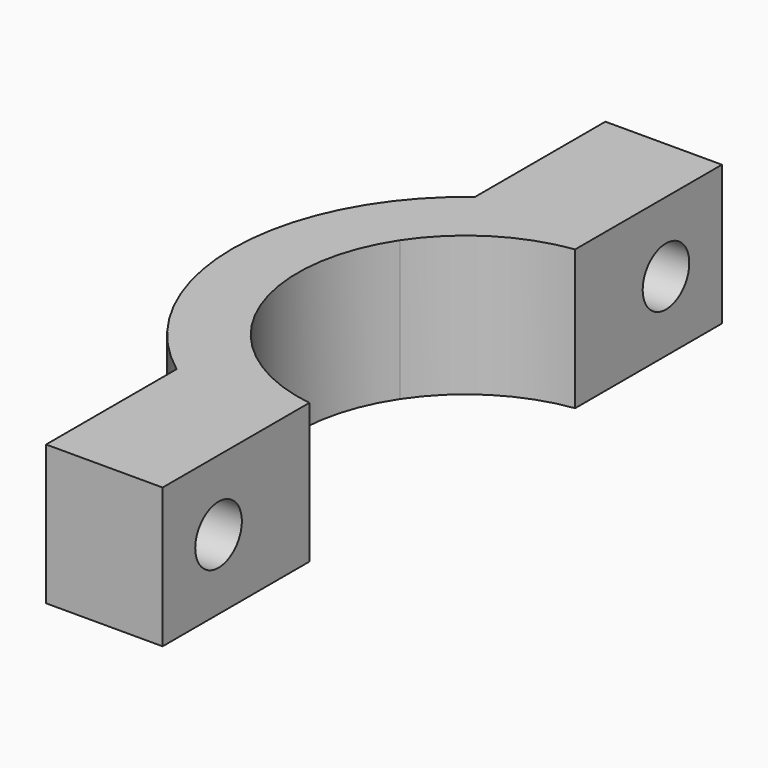
from build123d import *

# Parameters (mm, degrees)
F1_DEPTH = 7.62
F2_R     = 1.5875
F3_R     = 1.5875
F4_DEPTH = 25.4
F2_R_2   = 2.921
F3_R_2   = 2.921
F5_DEPTH = 2.794
F6_ANGLE = -90


with BuildPart() as f1:
    # F0 (on Top) → F1 (new body)
    with BuildSketch(Plane.XY):
        with BuildLine():
            Line((11.43, 1.27), (12.6363404513, 1.27))
            ThreePointArc((12.6363404513, 1.27), (12.2207385876, 3.4559439194), (11.43, 5.5358016583))
            Line((11.43, 5.5358016583), (11.43, 1.27))
        make_face()
        with BuildLine():
            ThreePointArc((11.43, 5.5358016583), (12.2207385876, 3.4559439194), (12.6363404513, 1.27))
            Line((12.6363404513, 1.27), (19.05, 1.27))
            Line((19.05, 1.27), (19.05, 7.62))
            Line((19.05, 7.62), (11.43, 7.62))
            Line((11.43, 7.62), (11.43, 5.5358016583))
        make_face()
        with BuildLine():
            Line((11.43, 1.27), (11.43, 5.5358016583))
            ThreePointArc((11.43, 5.5358016583), (10.8451830635, 6.6084797282), (10.16, 7.62))
            Line((10.16, 7.62), (5.0545361805, 7.62))
            ThreePointArc((5.0545361805, 7.62), (7.7364740689, 4.8743927807), (9.0553760827, 1.27))
            Line((9.0553760827, 1.27), (11.43, 1.27))
        make_face()
        with BuildLine():
            ThreePointArc((10.16, 7.62), (10.8451830635, 6.6084797282), (11.43, 5.5358016583))
            Line((11.43, 5.5358016583), (11.43, 7.62))
            Line((11.43, 7.62), (10.16, 7.62))
        make_face()
        with BuildLine():
            Line((5.0545361805, 7.62), (10.16, 7.62))
            ThreePointArc((10.16, 7.62), (0, 12.7), (-10.16, 7.62))
            Line((-10.16, 7.62), (-5.0545361805, 7.62))
            ThreePointArc((-5.0545361805, 7.62), (0, 9.144), (5.0545361805, 7.62))
        make_face()
        with BuildLine():
            Line((-5.0545361805, 7.62), (-10.16, 7.62))
            ThreePointArc((-10.16, 7.62), (-10.8451830635, 6.6084797282), (-11.43, 5.5358016583))
            Line((-11.43, 5.5358016583), (-11.43, 1.27))
            Line((-11.43, 1.27), (-9.0553760827, 1.27))
            ThreePointArc((-9.0553760827, 1.27), (-7.7364740689, 4.8743927807), (-5.0545361805, 7.62))
        make_face()
        with BuildLine():
            ThreePointArc((-11.43, 5.5358016583), (-10.8451830635, 6.6084797282), (-10.16, 7.62))
            Line((-10.16, 7.62), (-11.43, 7.62))
            Line((-11.43, 7.62), (-11.43, 5.5358016583))
        make_face()
        with BuildLine():
            Line((-11.43, 1.27), (-11.43, 5.5358016583))
            ThreePointArc((-11.43, 5.5358016583), (-12.2207385876, 3.4559439194), (-12.6363404513, 1.27))
            Line((-12.6363404513, 1.27), (-11.43, 1.27))
        make_face()
        with BuildLine():
            ThreePointArc((-12.6363404513, 1.27), (-12.2207385876, 3.4559439194), (-11.43, 5.5358016583))
            Line((-11.43, 5.5358016583), (-11.43, 7.62))
            Line((-11.43, 7.62), (-19.05, 7.62))
            Line((-19.05, 7.62), (-19.05, 1.27))
            Line((-19.05, 1.27), (-12.6363404513, 1.27))
        make_face()
    extrude(amount=F1_DEPTH)

    # F2 (on face) + F3 (on face) → F4 (cut)
    with BuildSketch(Plane(origin=(0, 7.62, 0), x_dir=(-1, 0, 0), z_dir=(0, 1, 0))):
        with Locations((-15.24, 3.81)):
            Circle(F2_R)
    with BuildSketch(Plane(origin=(0, 7.62, 0), x_dir=(-1, 0, 0), z_dir=(0, 1, 0))):
        with Locations((15.24, 3.81)):
            Circle(F3_R)
    extrude(amount=-F4_DEPTH, mode=Mode.SUBTRACT)

    # F2 (on face) + F3 (on face) → F5 (cut)
    with BuildSketch(Plane(origin=(0, 7.62, 0), x_dir=(-1, 0, 0), z_dir=(0, 1, 0))):
        with Locations((-15.24, 3.81)):
            Circle(F2_R_2)
        with Locations((-15.24, 3.81)):
            Circle(F2_R, mode=Mode.SUBTRACT)
    with BuildSketch(Plane(origin=(0, 7.62, 0), x_dir=(-1, 0, 0), z_dir=(0, 1, 0))):
        with Locations((15.24, 3.81)):
            Circle(F3_R_2)
        with Locations((15.24, 3.81)):
            Circle(F3_R, mode=Mode.SUBTRACT)
    extrude(amount=-F5_DEPTH, mode=Mode.SUBTRACT)


with BuildPart() as f1_1:
    # F6: moved
    add(f1.part.rotate(Axis((19.05, 1.27, 3.81), (0, 0, -1)), F6_ANGLE))


solid = f1_1.part
